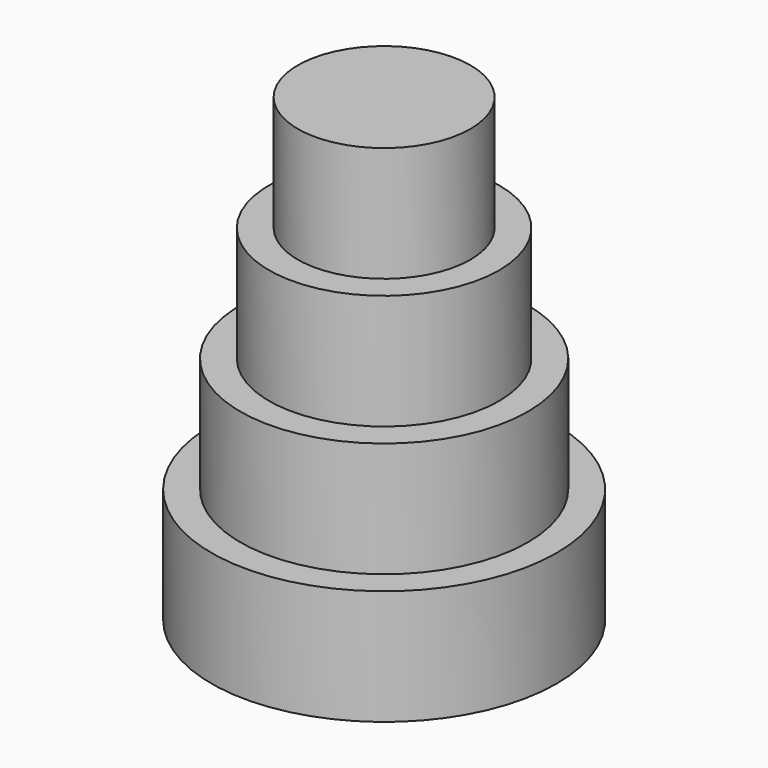
from build123d import *

# Parameters (mm, degrees)
F1_W = 76.2
F1_H = 101.6


with BuildPart() as f2:
    # F1 (on Front) → F2 (revolve)
    with BuildSketch(Plane.XZ):
        Polygon((425.792396, 101.6), (425.792396, 0), (578.192396, 0), (578.192396, 101.6), (552.792396, 101.6), align=None)
        Polygon((425.792396, 203.2), (425.792396, 101.6), (552.792396, 101.6), (552.792396, 203.2), (527.392396, 203.2), align=None)
        Polygon((425.792396, 304.8), (425.792396, 203.2), (527.392396, 203.2), (527.392396, 304.8), (501.992396, 304.8), align=None)
        with Locations((463.892396, 355.6)):
            Rectangle(F1_W, F1_H)
    revolve(axis=Axis((425.792396, 0, 108.627791), (0, 0, -1)))


solid = f2.part
